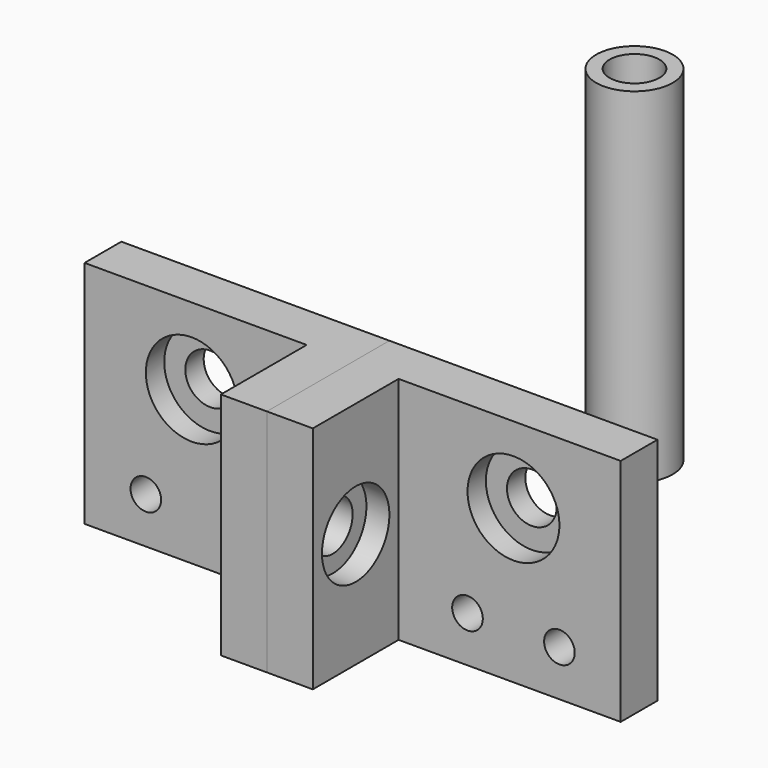
from build123d import *

# Parameters (mm, degrees)
F1_DEPTH       = 30
F3_D           = 6.5
F3_CBORE_D     = 12
F3_CBORE_DEPTH = 3
F4_D           = 4
F6_D           = 6.5
F6_CBORE_D     = 11
F6_CBORE_DEPTH = 3
F0_R           = 5
F0_R_2         = 3.25
F8_DEPTH       = 45


with BuildPart() as f1:
    # F0 (on Top) → F1 (new body)
    with BuildSketch(Plane.XY):
        Polygon((-6, -20), (0, -20), (0, 0), (-35, 0), (-35, -6), (-6, -6), align=None)
    extrude(amount=F1_DEPTH)

    # F3 (through all)
    with Locations(Plane.XZ.offset(6)):
        with Locations((-21, 20)):
            CounterBoreHole(F3_D / 2, F3_CBORE_D / 2, F3_CBORE_DEPTH)

    # F4 (through all)
    with Locations(Plane.XZ.offset(6)):
        with Locations((-27, 6), (-15, 6)):
            Hole(F4_D / 2)

    # F6 (through all)
    with Locations(Plane(origin=(-6, 0, 0), x_dir=(0, -1, 0), z_dir=(-1, 0, 0))):
        with Locations((13, 15)):
            CounterBoreHole(F6_D / 2, F6_CBORE_D / 2, F6_CBORE_DEPTH)


with BuildPart() as f7_1:
    # F7: instance of F1
    add(f1.part.mirror(Plane.YZ))


with BuildPart() as f8:
    # F0 (on Top) → F8 (new body)
    with BuildSketch(Plane.XY):
        with Locations((0, 40)):
            Circle(F0_R)
        with Locations((0, 40)):
            Circle(F0_R_2, mode=Mode.SUBTRACT)
    extrude(amount=F8_DEPTH)


solid = Compound([f1.part, f7_1.part, f8.part])
